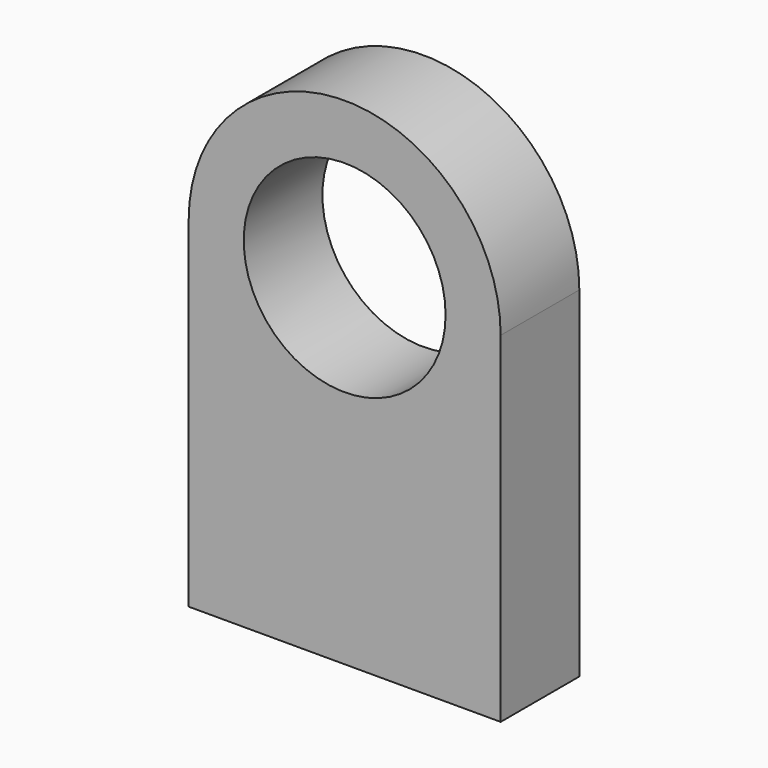
from build123d import *

# Parameters (mm, degrees)
F0_R     = 26.071284
F1_DEPTH = 25.4


with BuildPart() as f1:
    # F0 (on Front) → F1 (new body)
    with BuildSketch(Plane.XZ):
        with BuildLine():
            Line((-40.295284, 43.9585), (-40.295284, -43.9585))
            Line((-40.295284, -43.9585), (40.295284, -43.9585))
            Line((40.295284, -43.9585), (40.295284, 43.9585))
            ThreePointArc((40.295284, 43.9585), (0, 3.663216), (-40.295284, 43.9585))
        make_face()
        with BuildLine():
            ThreePointArc((40.295284, 43.9585), (0, 84.253784), (-40.295284, 43.9585))
            ThreePointArc((-40.295284, 43.9585), (0, 3.663216), (40.295284, 43.9585))
        make_face()
        with Locations((0, 43.9585)):
            Circle(F0_R, mode=Mode.SUBTRACT)
    extrude(amount=F1_DEPTH)


solid = f1.part
